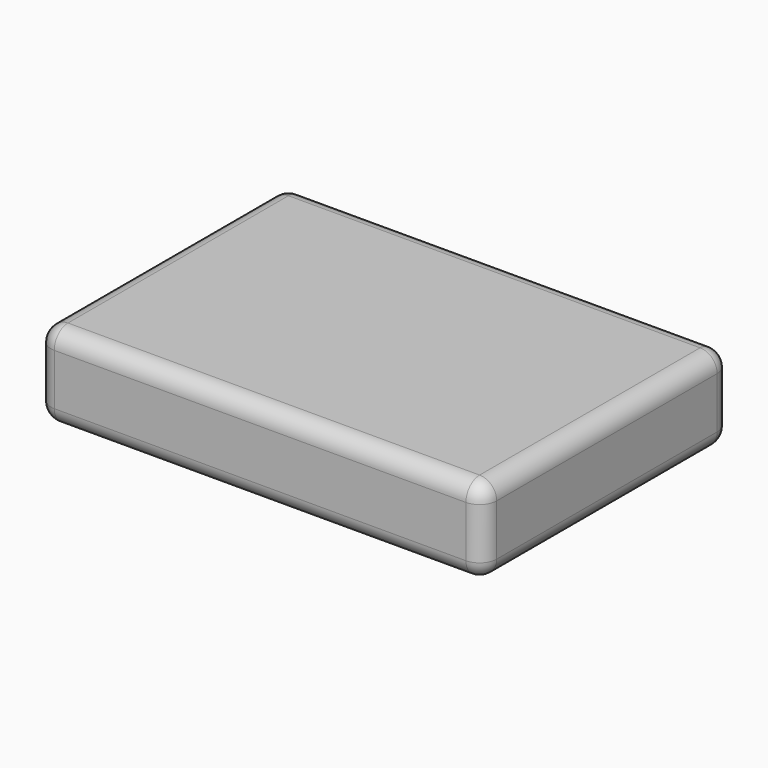
from build123d import *

# Parameters (mm, degrees)
F1_DEPTH = 25.4
F2_R     = 5.08


with BuildPart() as f1:
    # F0 (on Top) → F1 (new body)
    with BuildSketch(Plane.XY):
        with BuildLine():
            Line((40.0298386812, 35.026114434), (-92.3765525222, 35.026114434))
            Line((-92.3765525222, 35.026114434), (-92.3765525222, 0))
            Line((-92.3765525222, 0), (-54.1899020415, 0))
            ThreePointArc((-54.1899020415, 0), (-29.6374764293, 14.3361382619), (-5.0850508172, 0))
            Line((-5.0850508172, 0), (40.0298386812, 0))
            Line((40.0298386812, 0), (40.0298386812, 35.026114434))
        make_face()
        with BuildLine():
            Line((-54.1899020415, 0), (-92.3765525222, 0))
            Line((-92.3765525222, 0), (-92.3765525222, -30.0223715603))
            Line((-92.3765525222, -30.0223715603), (-52.7348229784, -30.0223715603))
            ThreePointArc((-52.7348229784, -30.0223715603), (-57.7970377768, -15.2212722889), (-54.1899020415, 0))
        make_face()
        with BuildLine():
            Line((40.0298386812, -30.0223715603), (40.0298386812, 0))
            Line((40.0298386812, 0), (-5.0850508172, 0))
            ThreePointArc((-5.0850508172, 0), (-2.3700906657, -6.6931514243), (-1.4448610633, -13.8564771041))
            ThreePointArc((-1.4448610633, -13.8564771041), (-2.7488341392, -22.3314093736), (-6.5401298802, -30.0223715603))
            Line((-6.5401298802, -30.0223715603), (40.0298386812, -30.0223715603))
        make_face()
        with BuildLine():
            Line((-52.7348229784, -30.0223715603), (-92.3765525222, -30.0223715603))
            Line((-92.3765525222, -30.0223715603), (-92.3765525222, -56.965533644))
            Line((-92.3765525222, -56.965533644), (40.0298386812, -56.965533644))
            Line((40.0298386812, -56.965533644), (40.0298386812, -30.0223715603))
            Line((40.0298386812, -30.0223715603), (-6.5401298802, -30.0223715603))
            ThreePointArc((-6.5401298802, -30.0223715603), (-29.6374764293, -42.0490924702), (-52.7348229784, -30.0223715603))
        make_face()
        with BuildLine():
            ThreePointArc((-5.0850508172, 0), (-29.6374764293, 14.3361382619), (-54.1899020415, 0))
            Line((-54.1899020415, 0), (-26.1733569205, 0))
            Line((-26.1733569205, 0), (-5.0850508172, 0))
        make_face()
        with BuildLine():
            Line((-26.1733569205, 0), (-54.1899020415, 0))
            ThreePointArc((-54.1899020415, 0), (-57.7970377768, -15.2212722889), (-52.7348229784, -30.0223715603))
            Line((-52.7348229784, -30.0223715603), (-6.5401298802, -30.0223715603))
            ThreePointArc((-6.5401298802, -30.0223715603), (-2.7488341392, -22.3314093736), (-1.4448610633, -13.8564771041))
            ThreePointArc((-1.4448610633, -13.8564771041), (-2.3700906657, -6.6931514243), (-5.0850508172, 0))
            Line((-5.0850508172, 0), (-26.1733569205, 0))
        make_face()
        with BuildLine():
            Line((-6.5401298802, -30.0223715603), (-52.7348229784, -30.0223715603))
            ThreePointArc((-52.7348229784, -30.0223715603), (-29.6374764293, -42.0490924702), (-6.5401298802, -30.0223715603))
        make_face()
    extrude(amount=F1_DEPTH)

    # F2
    f2_edges = [f1.edges().sort_by_distance(p)[0] for p in [
        (40.029839, -56.965534, 12.7),
        (40.029839, 35.026114, 12.7),
        (40.029839, -10.96971, 0),
        (40.029839, -10.96971, 25.4),
        (-92.376553, -56.965534, 12.7),
        (-26.173357, -56.965534, 0),
        (-26.173357, -56.965534, 25.4),
        (-92.376553, 35.026114, 12.7),
        (-26.173357, 35.026114, 0),
        (-26.173357, 35.026114, 25.4),
        (-92.376553, -10.96971, 0),
        (-92.376553, -10.96971, 25.4),
    ]]
    fillet(f2_edges, radius=F2_R)


solid = f1.part
